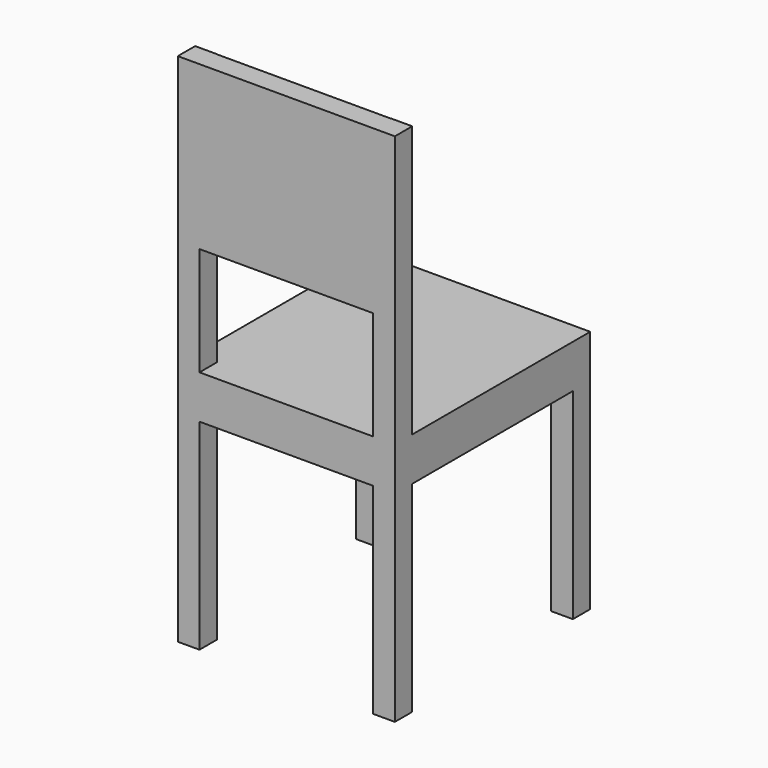
from build123d import *

# Parameters (mm, degrees)
F0_W     = 400
F0_H     = 450
F1_DEPTH = 80
F2_W     = 40
F2_H     = 40
F3_DEPTH = 500
F4_DEPTH = 450
F5_W     = 360
F5_H     = 39.547034
F6_DEPTH = 300


with BuildPart() as f1:
    # F0 (on Top) → F1 (new body)
    with BuildSketch(Plane.XY):
        with Locations((200, 225)):
            Rectangle(F0_W, F0_H)
    extrude(amount=-F1_DEPTH)

    # F2 (on face) → F3 (join)
    with BuildSketch(Plane.XY):
        with Locations((20, 20)):
            Rectangle(F2_W, F2_H)
        with Locations((380, 20)):
            Rectangle(F2_W, F2_H)
    extrude(amount=F3_DEPTH)

    # F2 (on face) → F4 (join)
    with BuildSketch(Plane.XY):
        with Locations((20, 20)):
            Rectangle(F2_W, F2_H)
        with Locations((380, 20)):
            Rectangle(F2_W, F2_H)
        with Locations((380, 430)):
            Rectangle(F2_W, F2_H)
        with Locations((20, 430)):
            Rectangle(F2_W, F2_H)
    extrude(amount=-F4_DEPTH)

    # F5 (on face) → F6 (join)
    with BuildSketch(Plane.XY.offset(500)):
        with Locations((220, 19.773517)):
            Rectangle(F5_W, F5_H)
    extrude(amount=-F6_DEPTH)


solid = f1.part
